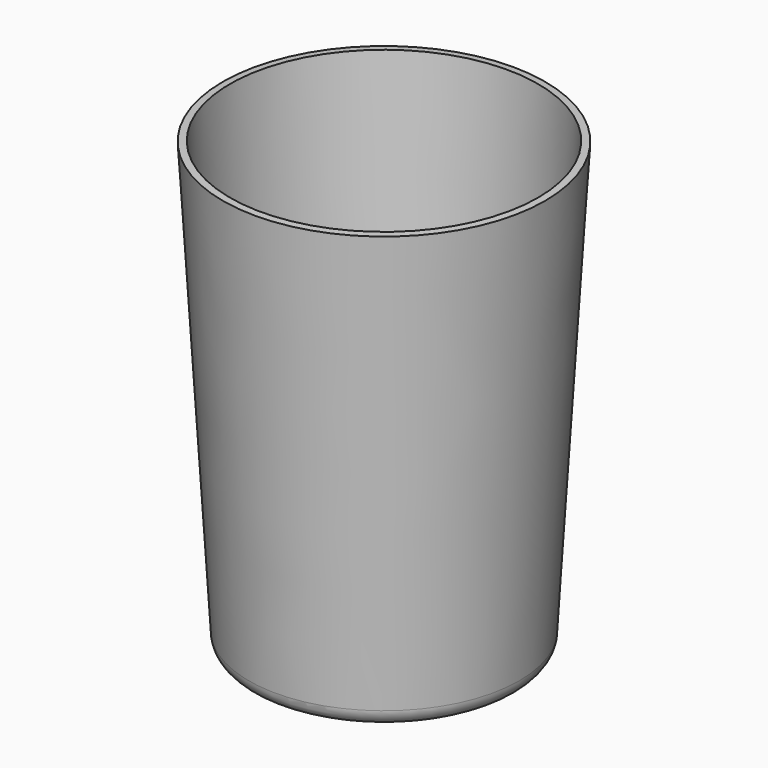
from build123d import *


with BuildPart() as f1:
    # F0 (on Front) → F1 (revolve)
    with BuildSketch(Plane.XZ):
        with BuildLine():
            ThreePointArc((131.164032, -200), (144.876127, -194.55948), (151.128129, -181.197846))
            Line((151.128129, -181.197846), (180, 300))
            Line((180, 300), (172.014361, 300.479138))
            Line((172.014361, 300.479138), (143.14249, -180.718707))
            ThreePointArc((143.14249, -180.718707), (139.391289, -188.735688), (131.164032, -192))
            Line((131.164032, -192), (0, -192))
            Line((0, -192), (0, -200))
            Line((0, -200), (131.164032, -200))
        make_face()
    revolve(axis=Axis((0, 0, -4.615398), (0, 0, -1)))


solid = f1.part
